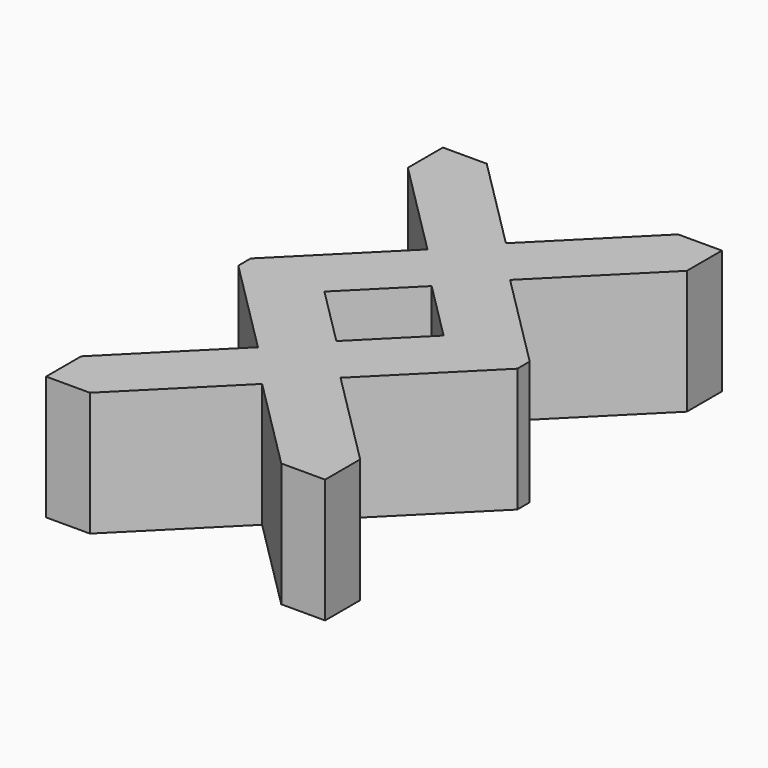
from build123d import *

# Parameters (mm, degrees)
F1_DEPTH = 8


with BuildPart() as f1:
    # F0 (on Top) → F1 (new body)
    with BuildSketch(Plane.XY):
        Polygon((2.828427, 0), (0, 0), (0, -2.828427), (6.335786, -9.164214), (0, -15.5), (0, -16.5), (6.335786, -22.835786), (0, -29.171573), (0, -32), (2.828427, -32), (9, -25.828427), (15.171573, -32), (18, -32), (18, -29.171573), (11.664214, -22.835786), (18, -16.5), (18, -15.5), (11.664214, -9.164214), (18, -2.828427), (18, 0), (15.171573, 0), (9, -6.171573), align=None)
        Polygon((5.156854, -16), (9, -12.156854), (12.843146, -16), (9, -19.843146), align=None, mode=Mode.SUBTRACT)
    extrude(amount=F1_DEPTH)


solid = f1.part
